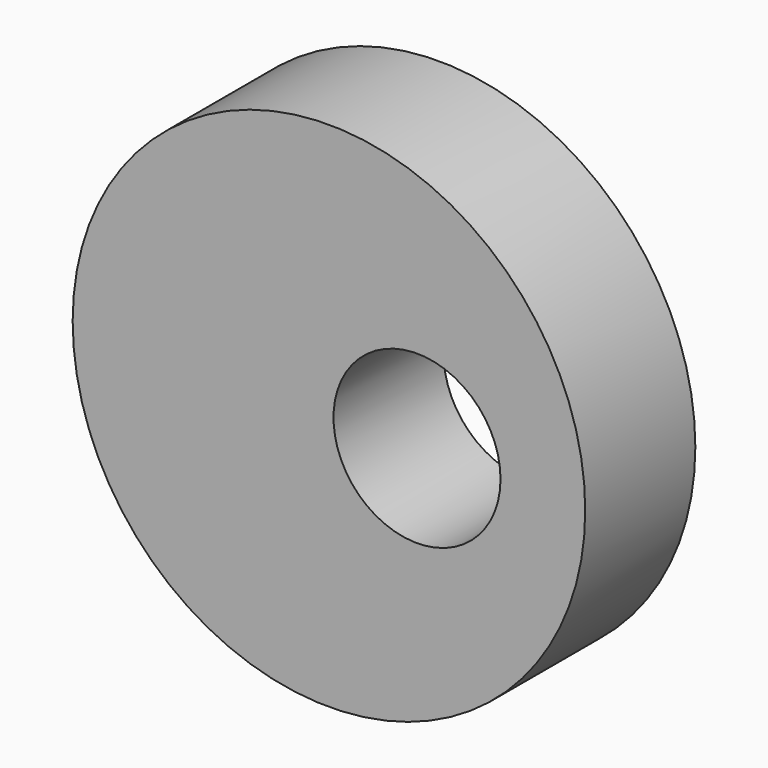
from build123d import *

# Parameters (mm, degrees)
F0_R     = 47.297695
F0_R_2   = 15.410399
F1_DEPTH = 12.7


with BuildPart() as f1:
    # F0 (on Front) → F1 (new body, symmetric)
    with BuildSketch(Plane.XZ):
        Circle(F0_R)
        with Locations((16.252033, 0)):
            Circle(F0_R_2, mode=Mode.SUBTRACT)
    extrude(amount=F1_DEPTH, both=True)


solid = f1.part
